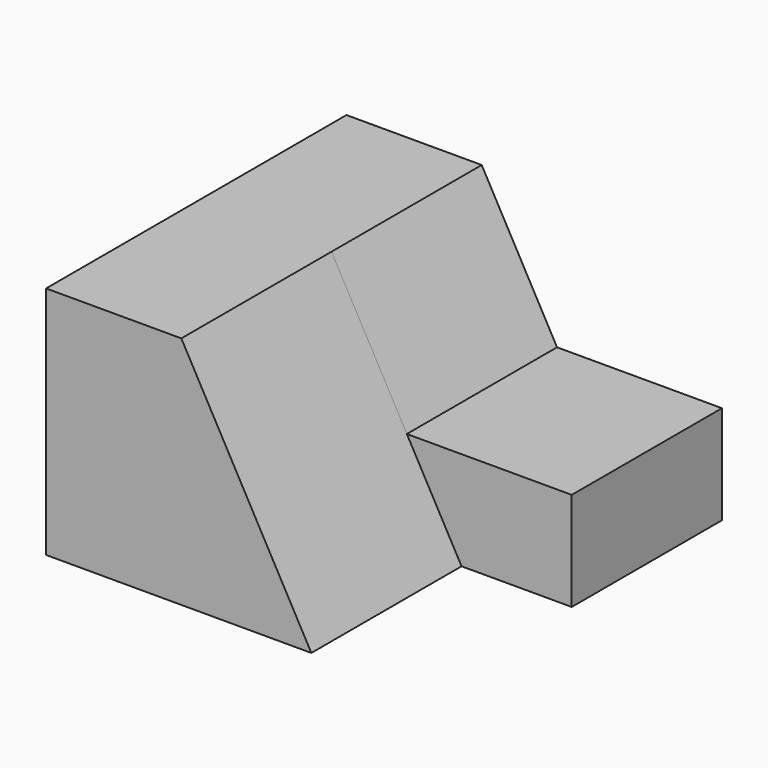
from build123d import *

# Parameters (mm, degrees)
F0_W     = 50.8
F0_H     = 31.75
F1_DEPTH = 50.8
F3_DEPTH = 25.4
F5_DEPTH = 25.4


with BuildPart() as f1:
    # F0 (on Front) → F1 (new body)
    with BuildSketch(Plane.XZ):
        with Locations((25.4, 15.875)):
            Rectangle(F0_W, F0_H)
    extrude(amount=F1_DEPTH)

    # F2 (on face) → F3 (cut)
    with BuildSketch(Plane.XZ.offset(50.8)):
        Polygon((50.8, 31.75), (18.300158903, 31.75), (35.8910150826, 0), (50.8, 0), align=None)
    extrude(amount=-F3_DEPTH, mode=Mode.SUBTRACT)

    # F4 (on face) → F5 (cut)
    with BuildSketch(Plane.XZ.offset(25.4)):
        Polygon((18.300158903, 31.75), (28.4925211666, 13.3536525702), (50.8, 13.3536525702), (50.8, 31.75), align=None)
    extrude(amount=-F5_DEPTH, mode=Mode.SUBTRACT)


solid = f1.part
